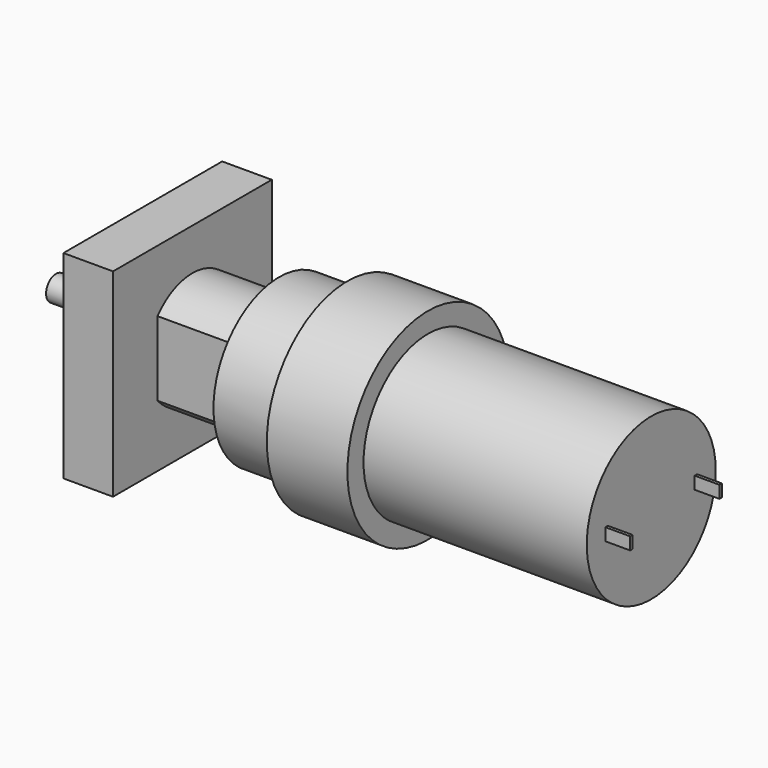
from build123d import *

# Parameters (mm, degrees)
F0_W      = 57.15
F0_H      = 20.6375
F0_W_2    = 12.7
F0_H_2    = 3.175
F6_DEPTH  = 34.925
F7_W      = 0.79375
F7_H      = 3.175
F8_DEPTH  = 6.35
F9_W      = 50.8
F9_H      = 50.8
F10_DEPTH = 12.7


with BuildPart() as f1:
    # F0 (on Top) → F1 (revolve)
    with BuildSketch(Plane.XY):
        Polygon((-130.175, 0), (-57.15, 0), (-57.15, 20.6375), (-57.15, 25.796875), (-77.7875, 25.796875), (-77.7875, 21.034375), (-95.25, 21.034375), (-95.25, 14.684375), (-130.175, 14.684375), (-130.175, 6.35), align=None)
    revolve(axis=Axis((-104.775, 0, 0), (1, 0, 0)))

    # F5 (on face) → F6 (cut, through all)
    with BuildSketch(Plane(origin=(-130.175, 0, 0), x_dir=(0, -1, 0), z_dir=(-1, 0, 0))):
        with BuildLine():
            Line((-11.1718425207, 0), (-14.684375, 0))
            ThreePointArc((-14.684375, 0), (-13.7782871605, -5.0783532826), (-11.1718425207, -9.5299949545))
            Line((-11.1718425207, -9.5299949545), (-11.1718425207, 0))
        make_face()
        with BuildLine():
            ThreePointArc((-11.1718425207, 9.5299949545), (-13.7782871605, 5.0783532826), (-14.684375, 0))
            Line((-14.684375, 0), (-11.1718425207, 0))
            Line((-11.1718425207, 0), (-11.1718425207, 9.5299949545))
        make_face()
        with BuildLine():
            ThreePointArc((14.684375, 0), (13.7782871605, 5.0783532826), (11.1718425207, 9.5299949545))
            Line((11.1718425207, 9.5299949545), (11.1718425207, -9.5299949545))
            ThreePointArc((11.1718425207, -9.5299949545), (13.7782871605, -5.0783532826), (14.684375, 0))
        make_face()
    extrude(amount=-F6_DEPTH, mode=Mode.SUBTRACT)


with BuildPart() as f2:
    # F0 (on Top) → F2 (revolve)
    with BuildSketch(Plane.XY):
        with Locations((-28.575, 10.31875)):
            Rectangle(F0_W, F0_H)
    revolve(axis=Axis((-28.575, 0, 0), (1, 0, 0)))

    # F7 (on face) → F8 (join)
    with BuildSketch(Plane.YZ):
        with Locations((-14.2875, 0)):
            Rectangle(F7_W, F7_H)
        with Locations((14.2875, 0)):
            Rectangle(F7_W, F7_H)
    extrude(amount=F8_DEPTH)


with BuildPart() as f3:
    # F0 (on Top) → F3 (revolve)
    with BuildSketch(Plane.XY):
        Polygon((-139.7, 0), (-130.175, 0), (-130.175, 6.35), (-139.7, 6.35), (-139.7, 3.175), align=None)
    revolve(axis=Axis((-104.775, 0, 0), (1, 0, 0)))


with BuildPart() as f4:
    # F0 (on Top) → F4 (revolve)
    with BuildSketch(Plane.XY):
        with Locations((-146.05, 1.5875)):
            Rectangle(F0_W_2, F0_H_2)
    revolve(axis=Axis((-104.775, 0, 0), (1, 0, 0)))


with BuildPart() as f10:
    # F9 (on face) → F10 (new body)
    with BuildSketch(Plane(origin=(-130.175, 0, 0), x_dir=(0, -1, 0), z_dir=(-1, 0, 0))):
        Rectangle(F9_W, F9_H)
        with BuildLine():
            Line((-11.1718425207, -9.5299949545), (-11.1718425207, 9.5299949545))
            ThreePointArc((-11.1718425207, 9.5299949545), (0, 14.684375), (11.1718425207, 9.5299949545))
            Line((11.1718425207, 9.5299949545), (11.1718425207, -9.5299949545))
            ThreePointArc((11.1718425207, -9.5299949545), (0, -14.684375), (-11.1718425207, -9.5299949545))
        make_face(mode=Mode.SUBTRACT)
    extrude(amount=-F10_DEPTH)


solid = Compound([f1.part, f2.part, f3.part, f4.part, f10.part])
